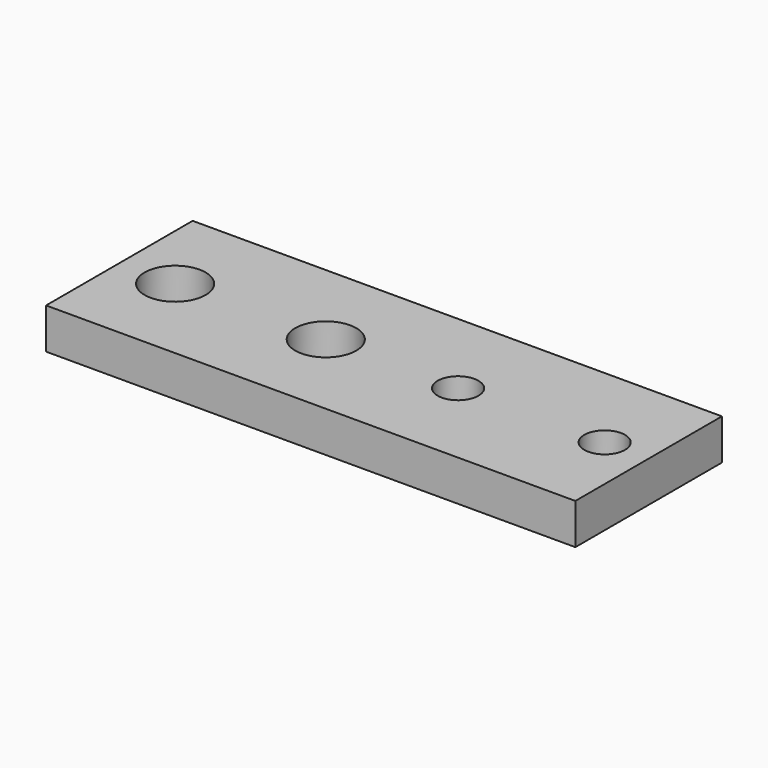
from build123d import *

# Parameters (mm, degrees)
SKETCH_W   = 130
SKETCH_H   = 45
SKETCH_R   = 7.5
SKETCH_R_2 = 5
PAD_DEPTH  = 10


with BuildPart() as part:
    # Sketch → Pad (new body)
    with BuildSketch(Plane.XY):
        with Locations((65, 22.5)):
            Rectangle(SKETCH_W, SKETCH_H)
        with Locations((13.694663, 22.5)):
            Circle(SKETCH_R, mode=Mode.SUBTRACT)
        with Locations((50.694663, 22.5)):
            Circle(SKETCH_R, mode=Mode.SUBTRACT)
        with Locations((83.194663, 22.5)):
            Circle(SKETCH_R_2, mode=Mode.SUBTRACT)
        with Locations((119.194663, 22.5)):
            Circle(SKETCH_R_2, mode=Mode.SUBTRACT)
    extrude(amount=PAD_DEPTH)


solid = part.part
